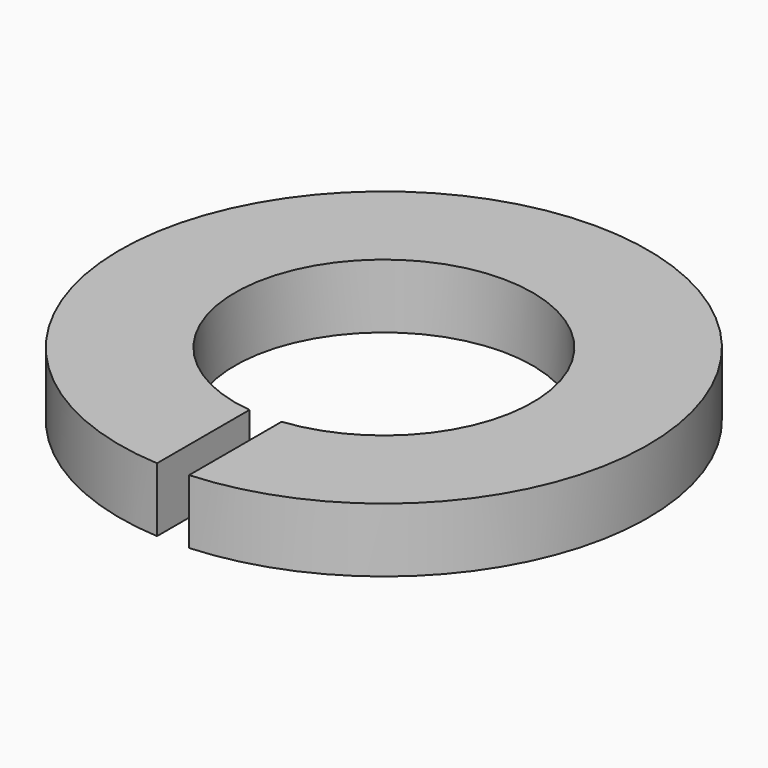
from build123d import *

# Parameters (mm, degrees)
PAD_DEPTH = 1.1


with BuildPart() as part:
    # Sketch → Pad (new body, symmetric)
    with BuildSketch(Plane.XY):
        with BuildLine():
            ThreePointArc((0.55, -5.070256), (0, 5.1), (-0.55, -5.070256))
            Line((-0.55, -9.033272), (-0.55, -5.070256))
            ThreePointArc((0.55, -9.033272), (0, 9.05), (-0.55, -9.033272))
            Line((0.55, -5.070256), (0.55, -9.033272))
        make_face()
    extrude(amount=PAD_DEPTH, both=True)


solid = part.part
